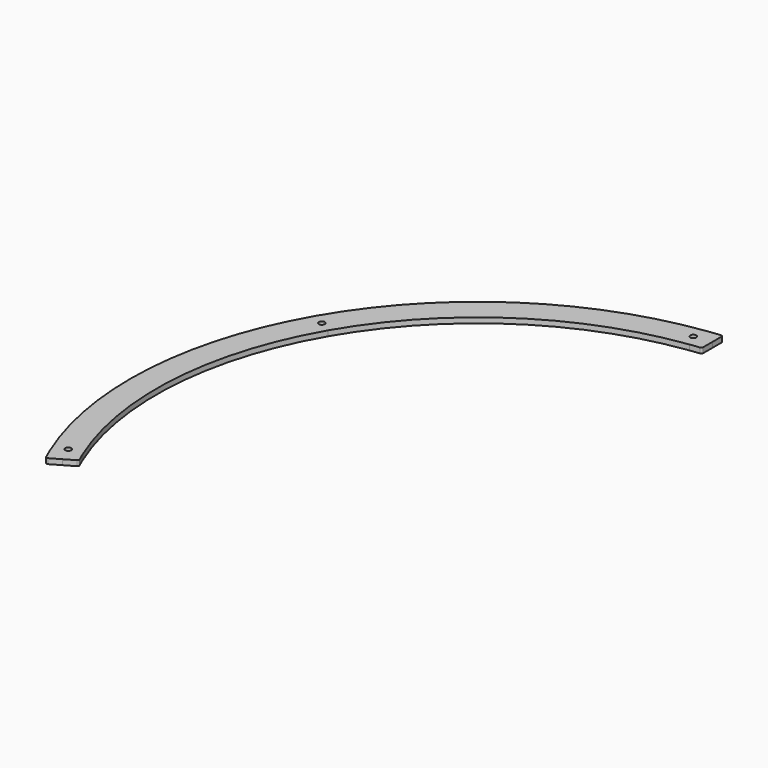
from build123d import *

# Parameters (mm, degrees)
PAD021_DEPTH                        = 3
SKETCH083_R                         = 1.7
POCKET041_DEPTH                     = 0.001
POCKET041_DEPTH_BACK                = 3.001
SKETCH084_R                         = 1.7
POCKET042_DEPTH                     = 0.001
POCKET042_DEPTH_BACK                = 3.001
BODY001003005003013_PLACEMENT_ANGLE = 60


with BuildPart() as part:
    # Sketch082 → Pad021 (new body)
    with BuildSketch(Plane.XY):
        with BuildLine():
            ThreePointArc((156.627412, 120.879551), (87.258751, 177.56667), (0, 197.848457))
            Line((0, 197.848457), (0, 182.848457))
            ThreePointArc((144.752611, 111.714995), (80.643177, 164.104346), (0, 182.848457))
            ThreePointArc((148.102078, 107.234942), (146.444477, 109.487778), (144.752611, 111.714995))
            ThreePointArc((148.102078, 107.234942), (148.703343, 106.843433), (149.41205, 106.955386))
            Line((155.154429, 110.27075), (149.41205, 106.955386))
            Line((155.154429, 110.27075), (160.726477, 113.487773))
            ThreePointArc((160.726477, 113.487773), (161.203737, 114.141753), (161.040435, 114.934722))
            ThreePointArc((161.040435, 114.934722), (158.861734, 117.927781), (156.627412, 120.879551))
        make_face()
    pad021 = extrude(amount=PAD021_DEPTH)

    # Mirrored029: Pad021 across Sketch082 V_Axis
    add(pad021.mirror(Plane(origin=(0, 0, 0), x_dir=(0, 0, 1), z_dir=(1, 0, 0))))

    # Sketch083 → Pocket041 (cut, two sides)
    with BuildSketch(Plane.XY) as pocket041_sk:
        with Locations((149.149219, 118.266841)):
            Circle(SKETCH083_R)
        with Locations((-149.149219, 118.266841)):
            Circle(SKETCH083_R)
    extrude(amount=-POCKET041_DEPTH, mode=Mode.SUBTRACT)
    extrude(pocket041_sk.sketch, amount=POCKET041_DEPTH_BACK, mode=Mode.SUBTRACT)

    # Sketch084 → Pocket042 (cut, two sides)
    with BuildSketch(Plane.XY) as pocket042_sk:
        with Locations((0, 190.348457)):
            Circle(SKETCH084_R)
    extrude(amount=-POCKET042_DEPTH, mode=Mode.SUBTRACT)
    extrude(pocket042_sk.sketch, amount=POCKET042_DEPTH_BACK, mode=Mode.SUBTRACT)


with BuildPart() as part_1:
    # Body001003005003013 placement: moved
    add(part.part.rotate(Axis((0, 0, 0), (0, 0, 1)), BODY001003005003013_PLACEMENT_ANGLE))


solid = part_1.part
